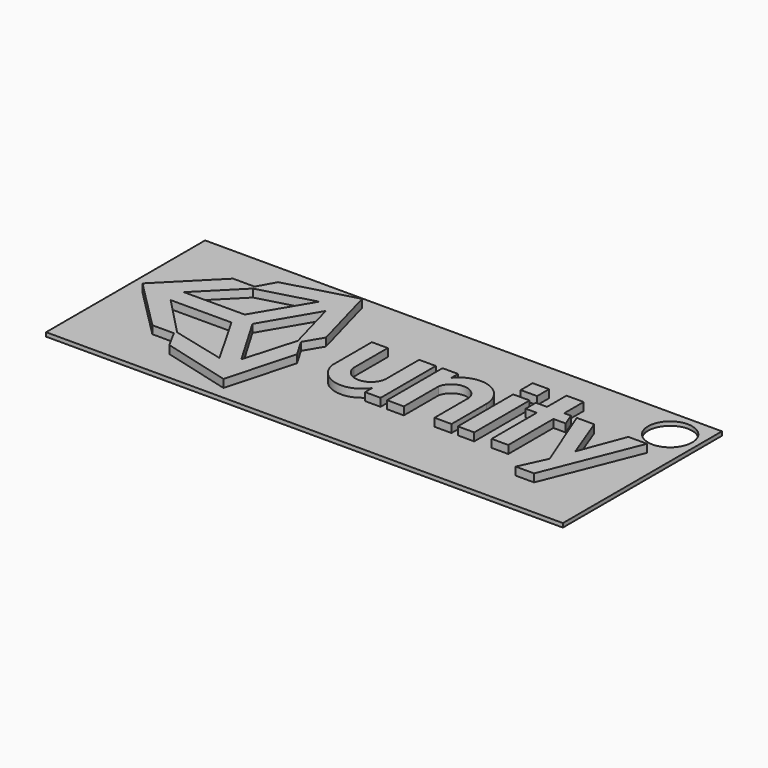
from build123d import *

# Parameters (mm, degrees)
F0_W     = 2.061097
F0_H     = 8.707439
F0_H_2   = 1.878258
F1_DEPTH = 1.5
F2_DEPTH = 0.5
F3_W     = 65
F3_H     = 25
F3_R     = 2.770285
F4_DEPTH = 0.5


with BuildPart() as f1:
    # F0 (on Top) → F1 (new body)
    with BuildSketch(Plane.XY):
        Polygon((-21.496991, 28.811658), (-27.812322, 22.467684), (-21.496991, 16.125386), (-18.785191, 16.125386), (-17.566214, 13.876943), (-8.911744, 11.56721), (-6.546105, 20.175021), (-7.885232, 22.479727), (-6.546105, 24.730425), (-8.911744, 33.368158), (-17.566214, 30.997935), (-18.785191, 28.811658), align=None)
        Polygon((-18.638959, 16.457254), (-23.431621, 21.419068), (-15.796979, 21.434365), (-11.995286, 14.798737), align=None, mode=Mode.SUBTRACT)
        Polygon((-15.825815, 23.56374), (-23.481131, 23.544564), (-18.657222, 28.390352), (-11.843824, 30.256355), align=None, mode=Mode.SUBTRACT)
        Polygon((-10.143321, 15.925611), (-13.996102, 22.485002), (-10.09543, 29.135993), (-8.269828, 22.470114), align=None, mode=Mode.SUBTRACT)
        with BuildLine():
            Line((-0.411379, 26.779151), (-2.410114, 26.779151))
            Line((-2.410114, 26.779151), (-2.410114, 20.545334))
            ThreePointArc((-2.410114, 20.545334), (0.186241, 17.797765), (3.711885, 19.161595))
            Line((3.711885, 19.161595), (3.711885, 18.071376))
            Line((3.711885, 18.071376), (5.654711, 18.071376))
            Line((5.654711, 18.071376), (5.654711, 26.751196))
            Line((5.654711, 26.751196), (3.558136, 26.751196))
            Line((3.558136, 26.751196), (3.558136, 21.45385))
            ThreePointArc((3.558136, 21.45385), (1.573379, 19.678749), (-0.411379, 21.45385))
            Line((-0.411379, 21.45385), (-0.411379, 26.779151))
        make_face()
        with BuildLine():
            Line((8.42219, 26.793128), (6.465387, 26.793128))
            Line((6.465387, 26.793128), (6.465387, 18.071376))
            Line((6.465387, 18.071376), (8.575939, 18.071376))
            Line((8.575939, 18.071376), (8.575939, 23.550425))
            ThreePointArc((8.575939, 23.550425), (10.504787, 25.091849), (12.433636, 23.550425))
            Line((12.433636, 23.550425), (12.433636, 18.071376))
            Line((12.433636, 18.071376), (14.572143, 18.071376))
            Line((14.572143, 18.071376), (14.572143, 23.550425))
            ThreePointArc((14.572143, 23.550425), (12.267347, 26.812948), (8.42219, 25.730863))
            Line((8.42219, 25.730863), (8.42219, 26.793128))
        make_face()
        with Locations((16.395208, 22.425095)):
            Rectangle(F0_W, F0_H)
        with Locations((16.395208, 28.898088)):
            Rectangle(F0_W, F0_H_2)
        Polygon((21.780655, 29.837217), (19.619828, 29.837217), (19.619828, 26.778815), (18.2236, 26.778815), (18.2236, 25.166508), (19.619828, 25.166508), (19.619828, 18.071376), (21.714168, 18.071376), (21.714168, 25.166508), (23.25999, 25.166508), (22.628363, 26.778815), (21.780655, 26.778815), align=None)
        Polygon((25.558328, 26.778815), (23.360141, 26.778815), (26.713498, 18.323004), (25.154579, 14.936002), (27.464919, 14.936002), (32.187678, 26.778815), (29.842546, 26.778815), (27.700437, 21.115597), align=None)
    extrude(amount=F1_DEPTH)

    # F0 (on Top) → F2 (join)
    with BuildSketch(Plane.XY):
        Polygon((-18.657222, 28.390352), (-23.481131, 23.544564), (-15.825815, 23.56374), (-11.843824, 30.256355), align=None)
        Polygon((-10.09543, 29.135993), (-13.996102, 22.485002), (-10.143321, 15.925611), (-8.269828, 22.470114), align=None)
        Polygon((-15.796979, 21.434365), (-23.431621, 21.419068), (-18.638959, 16.457254), (-11.995286, 14.798737), align=None)
    extrude(amount=F2_DEPTH)


with BuildPart() as f4:
    # F3 (on Top) → F4 (new body)
    with BuildSketch(Plane.XY):
        with Locations((2.579186, 22.449193)):
            Rectangle(F3_W, F3_H)
        with Locations((31.513099, 31.266317)):
            Circle(F3_R, mode=Mode.SUBTRACT)
    extrude(amount=F4_DEPTH)


solid = Compound([f1.part, f4.part])
